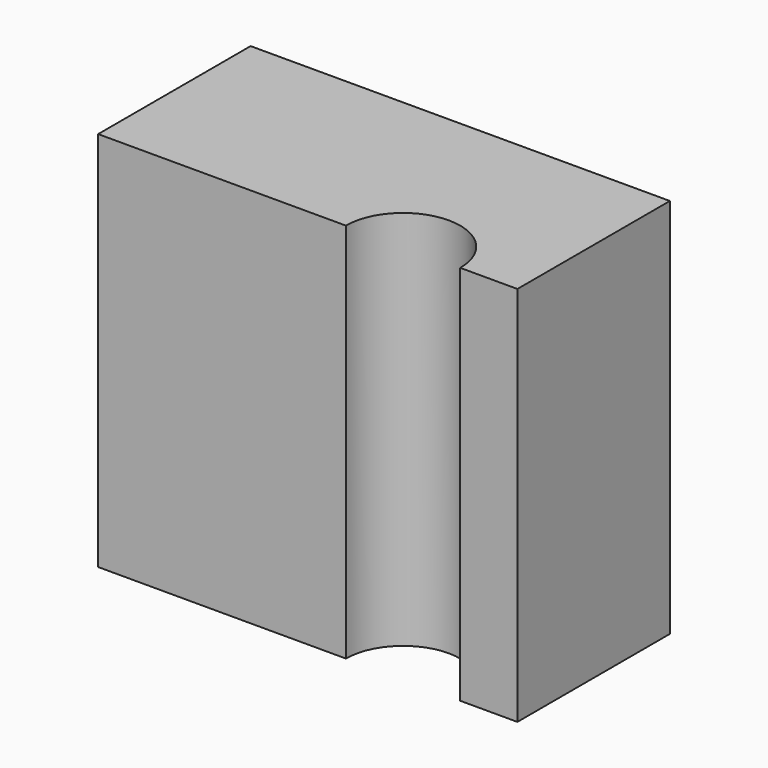
from build123d import *

# Parameters (mm, degrees)
F0_W     = 11
F0_H     = 5
F1_DEPTH = 10
F3_DEPTH = 10.001


with BuildPart() as f1:
    # F0 (on Top) → F1 (new body)
    with BuildSketch(Plane.XY):
        with Locations((20.1367214707, 0)):
            Rectangle(F0_W, F0_H)
        with Locations((20.1367214707, 0)):
            Rectangle(F0_W, F0_H)
    extrude(amount=F1_DEPTH)

    # F2 (on face) → F3 (cut, through all)
    with BuildSketch(Plane.XY.offset(10)):
        with BuildLine():
            Line((21.1367214707, -2.5), (24.1367214707, -2.5))
            ThreePointArc((24.1367214707, -2.5), (22.6367214707, -1), (21.1367214707, -2.5))
        make_face()
    extrude(amount=-F3_DEPTH, mode=Mode.SUBTRACT)


solid = f1.part
